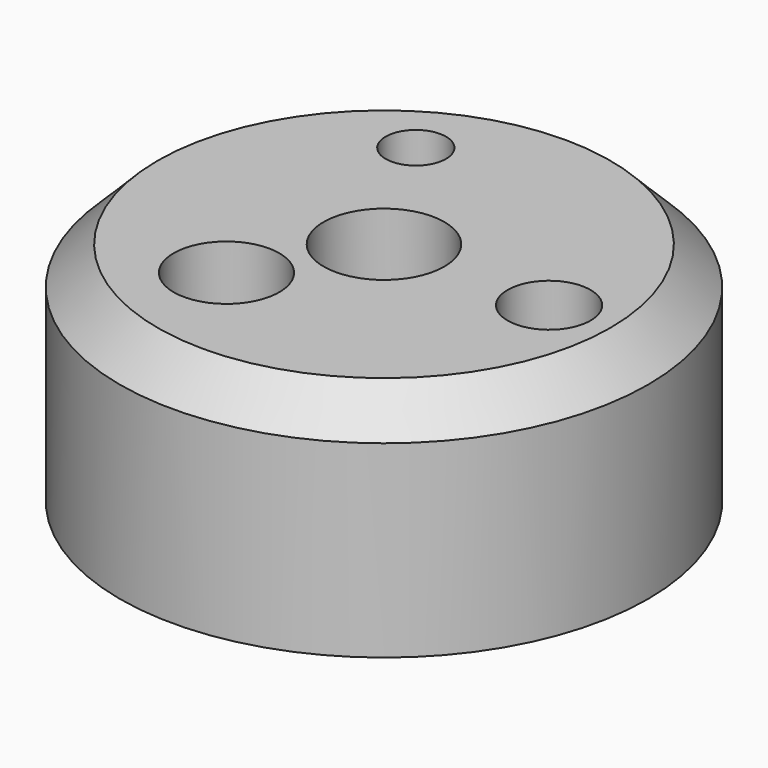
from build123d import *

# Parameters (mm, degrees)
F0_R           = 17.5
F1_DEPTH       = 15
F2_D           = 5.5
F2_DEPTH       = 12
F2_TIP         = 1.6523667023
F3_D           = 7
F3_DEPTH       = 12
F3_TIP         = 2.1030121666
F4_D           = 4
F4_DEPTH       = 12
F4_TIP         = 1.2017212381
F5_D           = 3.5
F5_CBORE_D     = 8
F5_CBORE_DEPTH = 10
F6_SIZE        = 2.5


with BuildPart() as f1:
    # F0 (on Top) → F1 (new body)
    with BuildSketch(Plane.XY):
        Circle(F0_R)
    extrude(amount=-F1_DEPTH)

    # F2
    with Locations(Plane.XY):
        with Locations((10.9375, 0)):
            Hole(F2_D / 2, depth=F2_DEPTH)
            with Locations((0, 0, -(F2_DEPTH + F2_TIP / 2))):  # 118° drill point
                Cone(0, F2_D / 2, F2_TIP, mode=Mode.SUBTRACT)

    # F3
    with Locations(Plane.XY):
        with Locations((-4.375, -7.5777222831)):
            Hole(F3_D / 2, depth=F3_DEPTH)
            with Locations((0, 0, -(F3_DEPTH + F3_TIP / 2))):  # 118° drill point
                Cone(0, F3_D / 2, F3_TIP, mode=Mode.SUBTRACT)

    # F4
    with Locations(Plane.XY):
        with Locations((-5.46875, 9.4721528539)):
            Hole(F4_D / 2, depth=F4_DEPTH)
            with Locations((0, 0, -(F4_DEPTH + F4_TIP / 2))):  # 118° drill point
                Cone(0, F4_D / 2, F4_TIP, mode=Mode.SUBTRACT)

    # F5 (through all)
    with Locations(Plane.XY):
        with Locations((0, 0)):
            CounterBoreHole(F5_D / 2, F5_CBORE_D / 2, F5_CBORE_DEPTH)

    # F6
    f6_edges = [f1.edges().sort_by_distance(p)[0] for p in [
        (-17.5, 0, 0),
    ]]
    chamfer(f6_edges, length=F6_SIZE)


solid = f1.part
